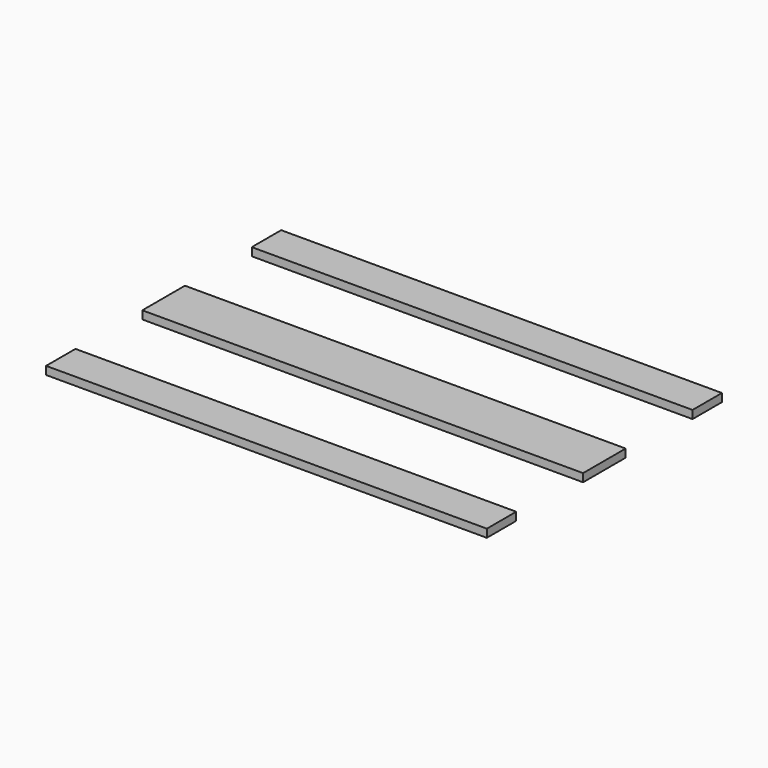
from build123d import *

# Parameters (mm, degrees)
F0_W     = 145
F0_H     = 100
F0_W_2   = 383
F0_W_3   = 382
F1_DEPTH = 22
F0_H_2   = 145
F4_DEPTH = 22


with BuildPart() as f1:
    # F0 (on Top) → F1 (new body)
    with BuildSketch(Plane.XY):
        with Locations((527.5, 350)):
            Rectangle(F0_W, F0_H)
        with Locations((263.5, 350)):
            Rectangle(F0_W_2, F0_H)
        with Locations((-0.5, 350)):
            Rectangle(F0_W, F0_H)
        with Locations((-264, 350)):
            Rectangle(F0_W_3, F0_H)
        with Locations((-527.5, 350)):
            Rectangle(F0_W, F0_H)
    extrude(amount=F1_DEPTH)


with BuildPart() as f1b:
    # F0 (on Top) → F1, piece 2 (new body)
    with BuildSketch(Plane.XY):
        with Locations((-527.5, 210)):
            Rectangle(F0_W, F0_H)
        with Locations((-264, 210)):
            Rectangle(F0_W_3, F0_H)
        with Locations((-0.5, 210)):
            Rectangle(F0_W, F0_H)
        with Locations((263.5, 210)):
            Rectangle(F0_W_2, F0_H)
        with Locations((527.5, 210)):
            Rectangle(F0_W, F0_H)
    extrude(amount=F1_DEPTH)


with BuildPart() as f1c:
    # F0 (on Top) → F1, piece 3 (new body)
    with BuildSketch(Plane.XY):
        with Locations((527.5, 0)):
            Rectangle(F0_W, F0_H_2)
        with Locations((263.5, 0)):
            Rectangle(F0_W_2, F0_H_2)
        with Locations((-0.5, 0)):
            Rectangle(F0_W, F0_H_2)
        with Locations((-264, 0)):
            Rectangle(F0_W_3, F0_H_2)
        with Locations((-527.5, 0)):
            Rectangle(F0_W, F0_H_2)
    extrude(amount=F1_DEPTH)


with BuildPart() as f1d:
    # F0 (on Top) → F1, piece 4 (new body)
    with BuildSketch(Plane.XY):
        with Locations((-527.5, -210)):
            Rectangle(F0_W, F0_H)
        with Locations((-264, -210)):
            Rectangle(F0_W_3, F0_H)
        with Locations((-0.5, -210)):
            Rectangle(F0_W, F0_H)
        with Locations((263.5, -210)):
            Rectangle(F0_W_2, F0_H)
        with Locations((527.5, -210)):
            Rectangle(F0_W, F0_H)
    extrude(amount=F1_DEPTH)


with BuildPart() as f1e:
    # F0 (on Top) → F1, piece 5 (new body)
    with BuildSketch(Plane.XY):
        with Locations((527.5, -350)):
            Rectangle(F0_W, F0_H)
        with Locations((263.5, -350)):
            Rectangle(F0_W_2, F0_H)
        with Locations((-0.5, -350)):
            Rectangle(F0_W, F0_H)
        with Locations((-264, -350)):
            Rectangle(F0_W_3, F0_H)
        with Locations((-527.5, -350)):
            Rectangle(F0_W, F0_H)
    extrude(amount=F1_DEPTH)


with BuildPart() as f4:
    # F0 (on Top) → F4 (new body)
    with BuildSketch(Plane.XY):
        with Locations((527.5, 350)):
            Rectangle(F0_W, F0_H)
        with Locations((263.5, 350)):
            Rectangle(F0_W_2, F0_H)
        with Locations((-0.5, 350)):
            Rectangle(F0_W, F0_H)
        with Locations((-264, 350)):
            Rectangle(F0_W_3, F0_H)
        with Locations((-527.5, 350)):
            Rectangle(F0_W, F0_H)
    extrude(amount=F4_DEPTH)


with BuildPart() as f4b:
    # F0 (on Top) → F4, piece 2 (new body)
    with BuildSketch(Plane.XY):
        with Locations((-527.5, -350)):
            Rectangle(F0_W, F0_H)
        with Locations((-264, -350)):
            Rectangle(F0_W_3, F0_H)
        with Locations((-0.5, -350)):
            Rectangle(F0_W, F0_H)
        with Locations((263.5, -350)):
            Rectangle(F0_W_2, F0_H)
        with Locations((527.5, -350)):
            Rectangle(F0_W, F0_H)
    extrude(amount=F4_DEPTH)


solid = Compound([f1c.part, f4.part, f4b.part])
